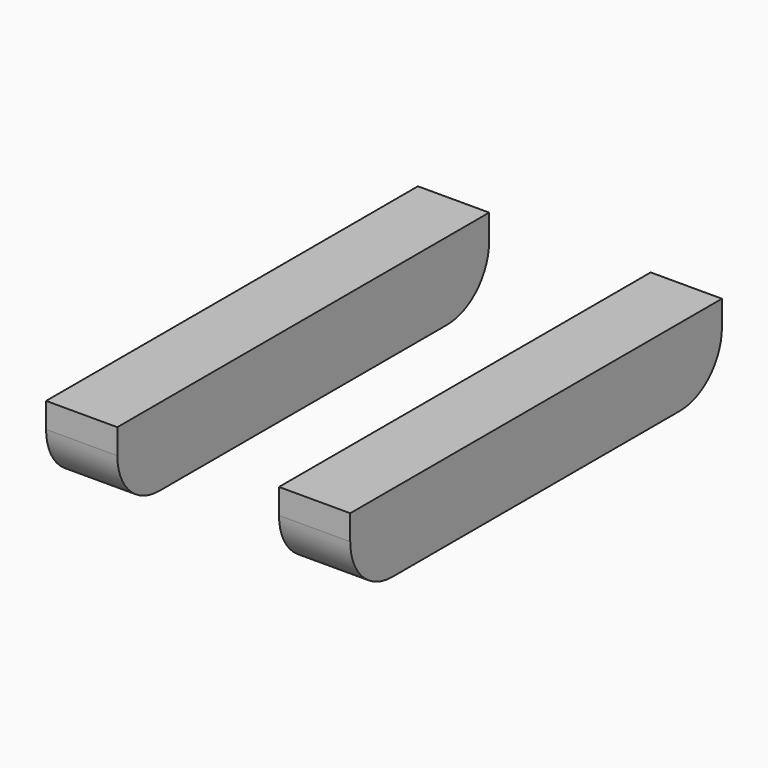
from build123d import *

# Parameters (mm, degrees)
F0_W     = 23
F0_H     = 150.066302
F0_H_2   = 150.004467
F1_DEPTH = 25
F2_R     = 16.899495


with BuildPart() as f1:
    # F0 (on Top) → F1 (new body)
    with BuildSketch(Plane.XY):
        with Locations((-43.185517, 0.03328)):
            Rectangle(F0_W, F0_H)
        with Locations((32.020832, 0.00222)):
            Rectangle(F0_W, F0_H_2)
    extrude(amount=F1_DEPTH)

    # F2
    f2_edges = [f1.edges().sort_by_distance(p)[0] for p in [
        (-43.185517, -74.999871, 0),
        (32.020832, -75.000013, 0),
        (-43.185517, 75.066431, 0),
        (32.020832, 75.004454, 0),
    ]]
    fillet(f2_edges, radius=F2_R)


solid = f1.part
